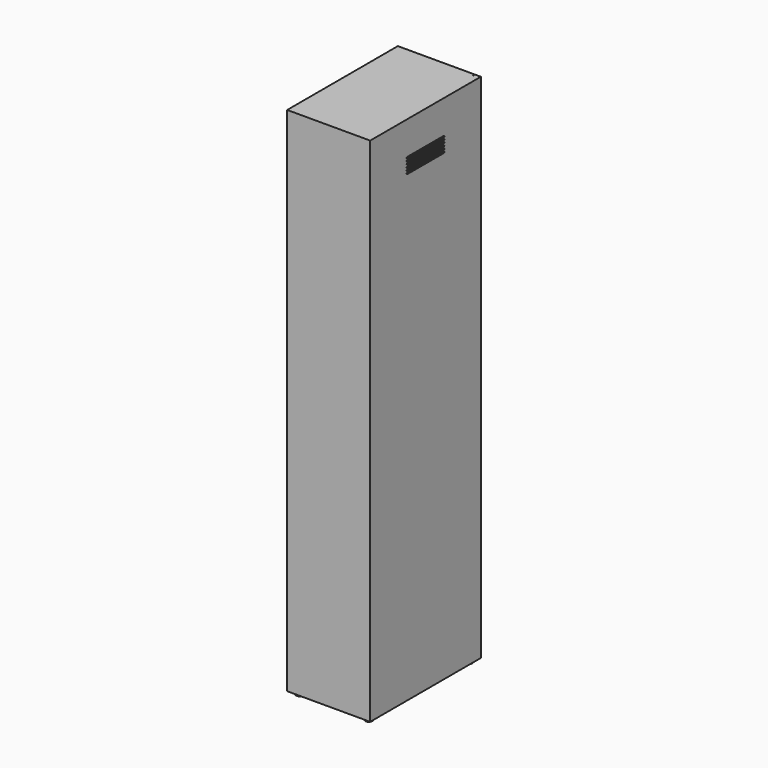
from build123d import *

# Parameters (mm, degrees)
F0_W      = 300
F0_H      = 500
F1_DEPTH  = 1850
F2_T      = -2.5
F3_W      = 297.5
F3_H      = 1847.5
F3_W_2    = 277.5
F3_H_2    = 1827.5
F4_DEPTH  = 2.5
F5_R      = 12.5
F6_DEPTH  = 12
F9_DEPTH  = 300.001
F7_R      = 2
F10_DEPTH = 1862.001


with BuildPart() as f1:
    # F0 (on Top) → F1 (new body)
    with BuildSketch(Plane.XY):
        with Locations((150, 250)):
            Rectangle(F0_W, F0_H)
    extrude(amount=F1_DEPTH)

    # F2
    f2_openings = [f1.faces().sort_by_distance(p)[0] for p in [
        (150, 500, 925),
    ]]
    offset(amount=F2_T, openings=f2_openings)

    # F3 (on face) → F4 (join)
    with BuildSketch(Plane(origin=(0, 500, 0), x_dir=(-1, 0, 0), z_dir=(0, 1, 0))):
        with Locations((-148.75, 923.75)):
            Rectangle(F3_W, F3_H)
        with Locations((-148.75, 923.75)):
            Rectangle(F3_W_2, F3_H_2, mode=Mode.SUBTRACT)
    extrude(amount=-F4_DEPTH)

    # F5 (on face) → F6 (join)
    with BuildSketch(Plane(origin=(0, 0, 0), x_dir=(1, 0, 0), z_dir=(0, 0, -1))):
        with Locations((25, -25)):
            Circle(F5_R)
        with Locations((25, -475)):
            Circle(F5_R)
        with Locations((275, -25)):
            Circle(F5_R)
        with Locations((275, -475)):
            Circle(F5_R)
    extrude(amount=F6_DEPTH)

    # F8 (on face) → F9 (cut, through all)
    with BuildSketch(Plane(origin=(0, 0, 0), x_dir=(0, -1, 0), z_dir=(-1, 0, 0))):
        with BuildLine():
            Line((-167, 1730), (-333, 1730))
            ThreePointArc((-333, 1730), (-334.414214, 1729.414214), (-335, 1728))
            Line((-335, 1728), (-335, 1727))
            ThreePointArc((-335, 1727), (-334.414214, 1725.585786), (-333, 1725))
            Line((-333, 1725), (-167, 1725))
            ThreePointArc((-167, 1725), (-165.585786, 1725.585786), (-165, 1727))
            Line((-165, 1727), (-165, 1728))
            ThreePointArc((-165, 1728), (-165.585786, 1729.414214), (-167, 1730))
        make_face()
        with BuildLine():
            ThreePointArc((-335, 1717), (-334.414214, 1715.585786), (-333, 1715))
            Line((-333, 1715), (-167, 1715))
            ThreePointArc((-167, 1715), (-165.585786, 1715.585786), (-165, 1717))
            Line((-165, 1717), (-165, 1718))
            ThreePointArc((-165, 1718), (-165.585786, 1719.414214), (-167, 1720))
            Line((-167, 1720), (-333, 1720))
            ThreePointArc((-333, 1720), (-334.414214, 1719.414214), (-335, 1718))
            Line((-335, 1718), (-335, 1717))
        make_face()
        with BuildLine():
            ThreePointArc((-335, 1707), (-334.414214, 1705.585786), (-333, 1705))
            Line((-333, 1705), (-167, 1705))
            ThreePointArc((-167, 1705), (-165.585786, 1705.585786), (-165, 1707))
            Line((-165, 1707), (-165, 1708))
            ThreePointArc((-165, 1708), (-165.585786, 1709.414214), (-167, 1710))
            Line((-167, 1710), (-333, 1710))
            ThreePointArc((-333, 1710), (-334.414214, 1709.414214), (-335, 1708))
            Line((-335, 1708), (-335, 1707))
        make_face()
        with BuildLine():
            ThreePointArc((-335, 1697), (-334.414214, 1695.585786), (-333, 1695))
            Line((-333, 1695), (-167, 1695))
            ThreePointArc((-167, 1695), (-165.585786, 1695.585786), (-165, 1697))
            Line((-165, 1697), (-165, 1698))
            ThreePointArc((-165, 1698), (-165.585786, 1699.414214), (-167, 1700))
            Line((-167, 1700), (-333, 1700))
            ThreePointArc((-333, 1700), (-334.414214, 1699.414214), (-335, 1698))
            Line((-335, 1698), (-335, 1697))
        make_face()
        with BuildLine():
            ThreePointArc((-335, 1687), (-334.414214, 1685.585786), (-333, 1685))
            Line((-333, 1685), (-167, 1685))
            ThreePointArc((-167, 1685), (-165.585786, 1685.585786), (-165, 1687))
            Line((-165, 1687), (-165, 1688))
            ThreePointArc((-165, 1688), (-165.585786, 1689.414214), (-167, 1690))
            Line((-167, 1690), (-333, 1690))
            ThreePointArc((-333, 1690), (-334.414214, 1689.414214), (-335, 1688))
            Line((-335, 1688), (-335, 1687))
        make_face()
        with BuildLine():
            ThreePointArc((-335, 1677), (-334.414214, 1675.585786), (-333, 1675))
            Line((-333, 1675), (-167, 1675))
            ThreePointArc((-167, 1675), (-165.585786, 1675.585786), (-165, 1677))
            Line((-165, 1677), (-165, 1678))
            ThreePointArc((-165, 1678), (-165.585786, 1679.414214), (-167, 1680))
            Line((-167, 1680), (-333, 1680))
            ThreePointArc((-333, 1680), (-334.414214, 1679.414214), (-335, 1678))
            Line((-335, 1678), (-335, 1677))
        make_face()
    extrude(amount=-F9_DEPTH, mode=Mode.SUBTRACT)

    # F7 (on face) → F10 (cut, through all)
    with BuildSketch(Plane.XY.offset(1850)):
        with Locations((277.5, 495)):
            Circle(F7_R)
    extrude(amount=-F10_DEPTH, mode=Mode.SUBTRACT)


solid = f1.part
